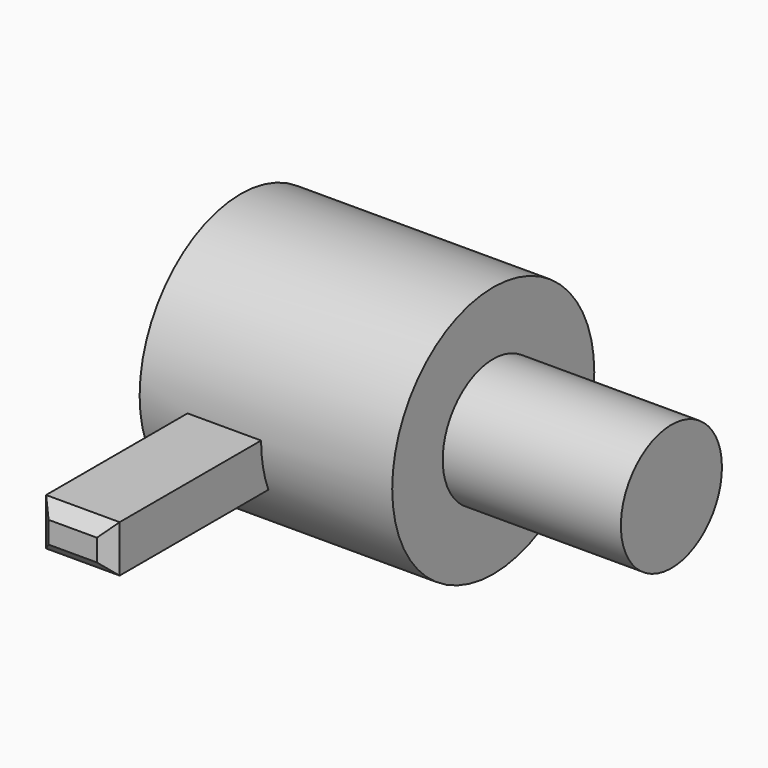
from build123d import *

# Parameters (mm, degrees)
F2_R     = 25.4
F3_DEPTH = 127
F4_W     = 29.586202
F4_H     = 18.928807
F5_DEPTH = 127
F6_SIZE2 = 5.08
F6_SIZE  = 5.08


with BuildPart() as f1:
    # F0 (on Front) → F1 (revolve)
    with BuildSketch(Plane.XZ):
        Polygon((55.335713, 50.8), (-46.264287, 50.8), (-46.264287, 0), (12.566184, 0), (55.335713, 0), align=None)
    revolve(axis=Axis((4.535713, 0, 0), (1, 0, 0)))

    # F2 (on Right) → F3 (join)
    with BuildSketch(Plane.YZ):
        Circle(F2_R)
    extrude(amount=F3_DEPTH)

    # F4 (on Front) → F5 (join)
    with BuildSketch(Plane.XZ):
        with Locations((-12.207311, -9.464403)):
            Rectangle(F4_W, F4_H)
    extrude(amount=F5_DEPTH)

    # F6
    f6_edges = [f1.edges().sort_by_distance(p)[0] for p in [
        (2.58579, -127, -9.464404),
        (-12.207311, -127, 0),
        (-27.000412, -127, -9.464404),
        (-12.207311, -127, -18.928807),
    ]]
    chamfer(f6_edges, length=F6_SIZE, length2=F6_SIZE2)


solid = f1.part
